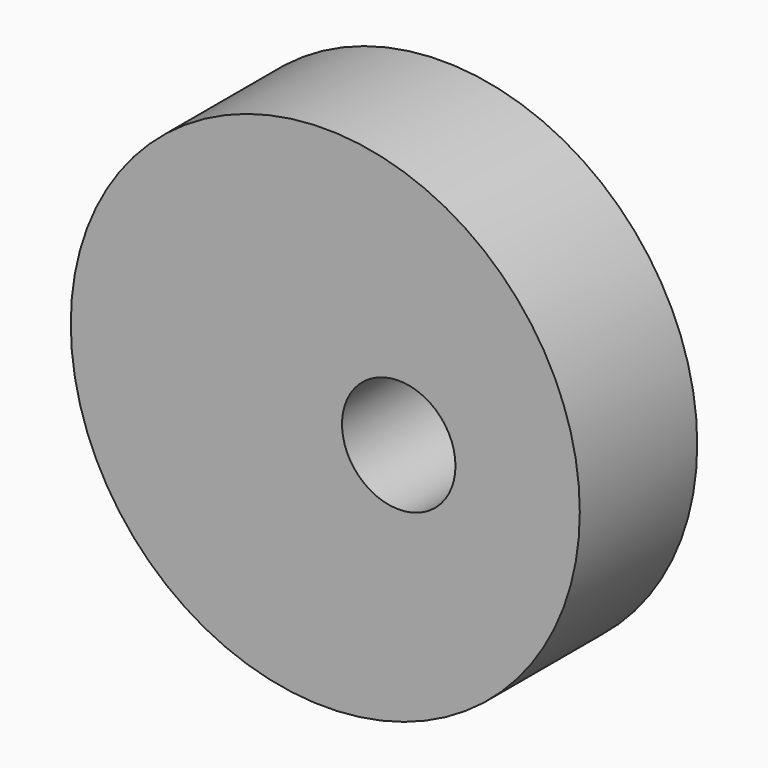
from build123d import *

# Parameters (mm, degrees)
F0_R     = 44.0438
F0_R_2   = 9.816083
F1_DEPTH = 12.7


with BuildPart() as f1:
    # F0 (on Front) → F1 (new body, symmetric)
    with BuildSketch(Plane.XZ):
        Circle(F0_R)
        with Locations((12.709938, 0)):
            Circle(F0_R_2, mode=Mode.SUBTRACT)
    extrude(amount=F1_DEPTH, both=True)


solid = f1.part
